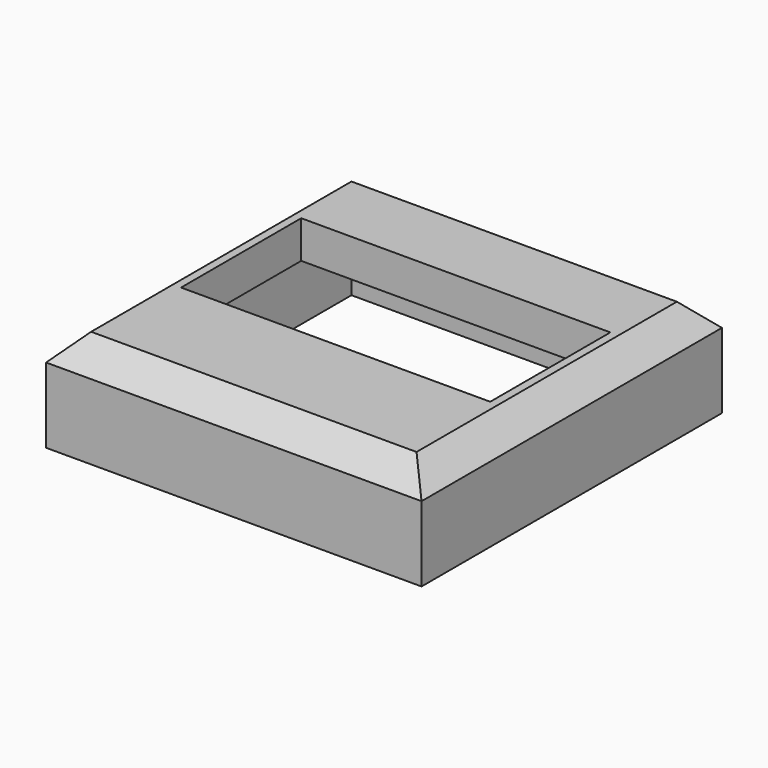
from build123d import *

# Parameters (mm, degrees)
SKETCH_W        = 30
SKETCH_H        = 30
PAD_DEPTH       = 8
CHAMFER_SIZE    = 2
SKETCH001_W     = 26
SKETCH001_H     = 26
POCKET_DEPTH    = 5
SKETCH002_W     = 24.7
SKETCH002_H     = 12
POCKET001_DEPTH = 5


with BuildPart() as part:
    # Sketch → Pad (new body)
    with BuildSketch(Plane.XY):
        with Locations((15, 15)):
            Rectangle(SKETCH_W, SKETCH_H)
    extrude(amount=PAD_DEPTH)

    # Chamfer
    chamfer_edges = [part.edges().sort_by_distance(p)[0] for p in [
        (15, 0, 8),
        (0, 15, 8),
        (15, 30, 8),
        (30, 15, 8),
    ]]
    chamfer(chamfer_edges, length=CHAMFER_SIZE)

    # Sketch001 (on Face4 of Chamfer) → Pocket (cut)
    with BuildSketch(Plane(origin=(0, 0, 0), x_dir=(1, 0, 0), z_dir=(0, 0, -1))):
        with Locations((15, -15)):
            Rectangle(SKETCH001_W, SKETCH001_H)
    extrude(amount=-POCKET_DEPTH, mode=Mode.SUBTRACT)

    # Sketch002 (on Face8 of Pocket) → Pocket001 (cut)
    with BuildSketch(Plane.XY.offset(8)):
        with Locations((15, 16.17)):
            Rectangle(SKETCH002_W, SKETCH002_H)
    extrude(amount=-POCKET001_DEPTH, mode=Mode.SUBTRACT)


solid = part.part
